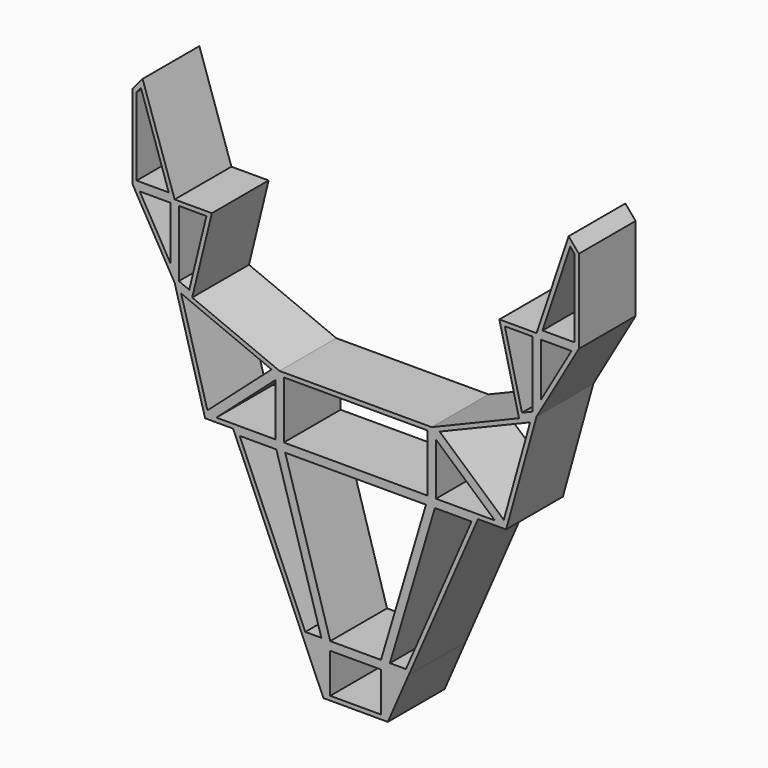
from build123d import *

# Parameters (mm, degrees)
F0_W     = 50.596558
F0_H     = 20.199042
F0_W_2   = 17.877146
F0_H_2   = 13.960166
F1_DEPTH = 12.5


with BuildPart() as f1:
    # F0 (on Front) → F1 (new body, symmetric)
    with BuildSketch(Plane.XZ):
        Polygon((-78.630596, 64.35625), (-63.742905, 64.35625), (-75.031465, 98.085683), (-78.630596, 93.827657), align=None)
        Polygon((-77.130596, 65.85625), (-77.130596, 93.27864), (-75.607495, 95.080575), (-65.826704, 65.85625), align=None, mode=Mode.SUBTRACT)
        Polygon((-78.630596, 64.35625), (-63.742905, 38.531836), (-63.742905, 64.35625), align=None)
        Polygon((-65.242905, 44.137091), (-76.03444, 62.85625), (-65.242905, 62.85625), align=None, mode=Mode.SUBTRACT)
        Polygon((-63.742905, 38.531836), (-57.557297, 35.964679), (-50.641312, 64.35625), (-63.742905, 64.35625), align=None)
        Polygon((-52.550563, 62.85625), (-58.600125, 38.021527), (-62.242905, 39.533357), (-62.242905, 62.85625), align=None, mode=Mode.SUBTRACT)
        Polygon((-53.005233, 0), (-26.798279, 23.199042), (-57.557297, 35.964679), (-63.742905, 38.531836), align=None)
        Polygon((-61.470346, 35.964624), (-29.588011, 22.732788), (-52.20399, 2.712565), align=None, mode=Mode.SUBTRACT)
        Polygon((-43.12326, 0), (-26.798279, 0), (-26.798279, 23.199042), (-53.005233, 0), align=None)
        Polygon((-49.047723, 1.5), (-28.298279, 19.86792), (-28.298279, 1.5), align=None, mode=Mode.SUBTRACT)
        Polygon((-26.798279, 0), (0, 0), (26.798279, 0), (26.798279, 23.199042), (0, 23.199042), (-26.798279, 23.199042), align=None)
        with Locations((0, 11.599521)):
            Rectangle(F0_W, F0_H, mode=Mode.SUBTRACT)
        Polygon((26.798279, 23.199042), (26.798279, 0), (43.12326, 0), (53.005233, 0), align=None)
        Polygon((49.047723, 1.5), (28.298279, 1.5), (28.298279, 19.86792), align=None, mode=Mode.SUBTRACT)
        Polygon((57.557297, 35.964679), (26.798279, 23.199042), (53.005233, 0), (63.742905, 38.531836), align=None)
        Polygon((52.20399, 2.712565), (29.588011, 22.732788), (61.470346, 35.964624), align=None, mode=Mode.SUBTRACT)
        Polygon((50.641312, 64.35625), (57.557297, 35.964679), (63.742905, 38.531836), (63.742905, 64.35625), align=None)
        Polygon((52.550563, 62.85625), (62.242905, 62.85625), (62.242905, 39.533357), (58.600125, 38.021527), align=None, mode=Mode.SUBTRACT)
        Polygon((63.742905, 64.35625), (63.742905, 38.531836), (78.630596, 64.35625), align=None)
        Polygon((65.242905, 44.137091), (65.242905, 62.85625), (76.03444, 62.85625), align=None, mode=Mode.SUBTRACT)
        Polygon((75.031465, 98.085683), (63.742905, 64.35625), (78.630596, 64.35625), (78.630596, 93.827657), align=None)
        Polygon((77.130596, 65.85625), (65.826704, 65.85625), (75.607495, 95.080575), (77.130596, 93.27864), align=None, mode=Mode.SUBTRACT)
        Polygon((26.798279, 0), (0, 0), (-26.798279, 0), (-10.057273, -56.268178), (0, -56.268178), (10.057273, -56.268178), align=None)
        Polygon((-8.938573, -54.768178), (-24.787014, -1.5), (24.787014, -1.5), (8.938573, -54.768178), align=None, mode=Mode.SUBTRACT)
        Polygon((43.12326, 0), (26.798279, 0), (10.057273, -56.268178), (18.706328, -56.268178), align=None)
        Polygon((17.722096, -54.768178), (12.068537, -54.768178), (27.916978, -1.5), (40.837213, -1.5), align=None, mode=Mode.SUBTRACT)
        Polygon((-10.057273, -56.268178), (-26.798279, 0), (-43.12326, 0), (-18.706328, -56.268178), align=None)
        Polygon((-17.722096, -54.768178), (-40.837213, -1.5), (-27.916978, -1.5), (-12.068537, -54.768178), align=None, mode=Mode.SUBTRACT)
        Polygon((0, -56.268178), (-10.057273, -56.268178), (-18.706328, -56.268178), (-11.346658, -73.228344), (0, -73.228344), (11.346658, -73.228344), (18.706328, -56.268178), (10.057273, -56.268178), align=None)
        with Locations((0, -64.748261)):
            Rectangle(F0_W_2, F0_H_2, mode=Mode.SUBTRACT)
    extrude(amount=F1_DEPTH, both=True)


solid = f1.part
